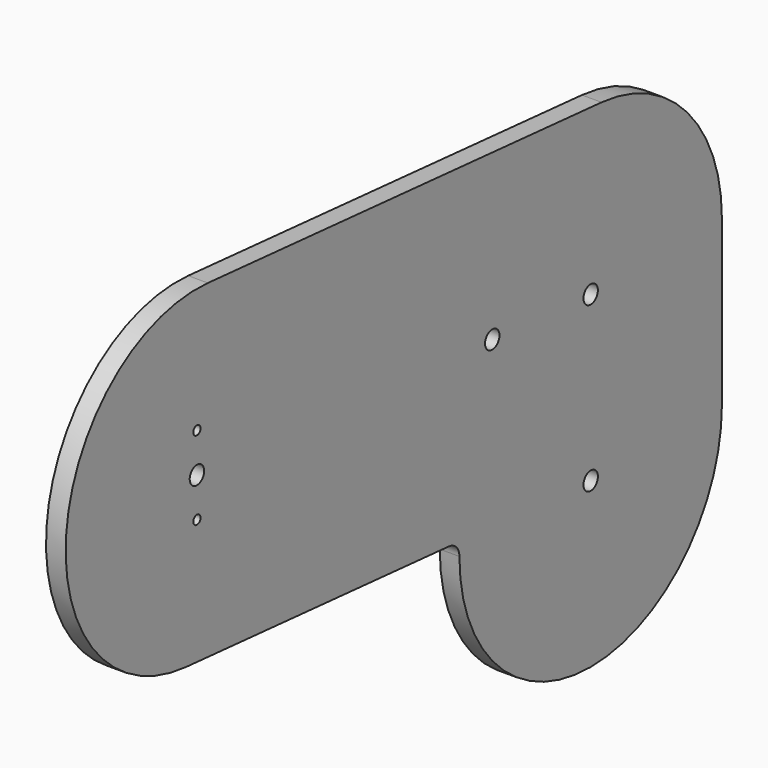
from build123d import *

# Parameters (mm, degrees)
PAD003_DEPTH  = 12
SKETCH009_R   = 5.5
HOLE001_DEPTH = 12.001
SKETCH038_R   = 2.75
HOLE005_DEPTH = 12.001


with BuildPart() as arm_left:
    # Sketch008 → Pad003 (new body)
    with BuildSketch(Plane.YZ):
        with BuildLine():
            ThreePointArc((100, 100), (73.588229, 167.710949), (8.304548, 199.654576))
            Line((8.304548, 199.654576), (-291.695452, 224.654576))
            ThreePointArc((-291.695452, 224.654576), (-399.654576, 133.304548), (-308.304548, 25.345424))
            Line((-308.304548, 25.345424), (-107.959124, 8.649972))
            ThreePointArc((-100, 0), (-102.29253, 5.87728), (-107.959124, 8.649972))
            ThreePointArc((-100, 0), (0, -100), (100, 0))
            Line((100, 0), (100, 100))
        make_face()
    extrude(amount=PAD003_DEPTH)

    # Sketch009 → Hole001 (cut, through all)
    with BuildSketch(Plane.YZ):
        with Locations((-300, 125)):
            Circle(SKETCH009_R)
        with Locations((0, 100)):
            Circle(SKETCH009_R)
        Circle(SKETCH009_R)
        with Locations((-75, 106.25)):
            Circle(SKETCH009_R)
    extrude(amount=HOLE001_DEPTH, mode=Mode.SUBTRACT)

    # Sketch038 → Hole005 (cut, through all)
    with BuildSketch(Plane.YZ):
        with Locations((-300, 149)):
            Circle(SKETCH038_R)
        with Locations((-300, 101)):
            Circle(SKETCH038_R)
    extrude(amount=HOLE005_DEPTH, mode=Mode.SUBTRACT)


with BuildPart() as arm_left_1:
    # Body004 placement: moved
    add(arm_left.part.moved(Location((622, 0, 0))))


with BuildPart() as arm_right:
    # Part__Mirroring001: instance of arm_left
    add(arm_left_1.part.mirror(Plane(origin=(4e-06, -149.827286, 62.327362), x_dir=(0, -1, 0), z_dir=(1, 0, 0))))


solid = arm_right.part
